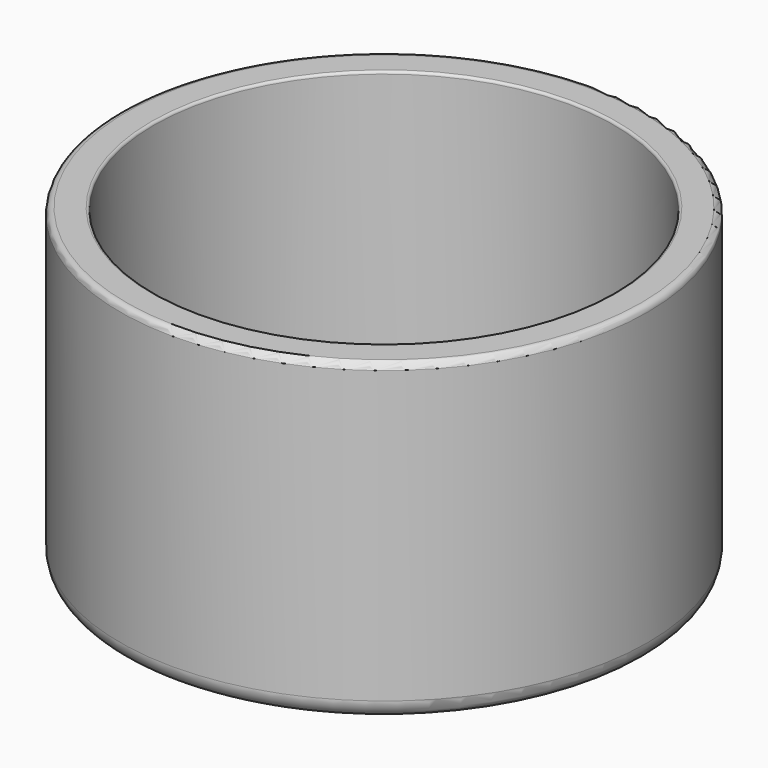
from build123d import *

# Parameters (mm, degrees)
F0_R     = 210.5
F1_DEPTH = 252
F2_R     = 183.5
F3_DEPTH = 231.775
F4_R     = 15
F5_R     = 5
F6_R     = 2


with BuildPart() as f1:
    # F0 (on Top) → F1 (new body)
    with BuildSketch(Plane.XY):
        Circle(F0_R)
    extrude(amount=F1_DEPTH)

    # F2 (on face) → F3 (cut)
    with BuildSketch(Plane.XY.offset(252)):
        Circle(F2_R)
    extrude(amount=-F3_DEPTH, mode=Mode.SUBTRACT)

    # F4
    f4_edges = [f1.edges().sort_by_distance(p)[0] for p in [
        (-210.5, 0, 0),
    ]]
    fillet(f4_edges, radius=F4_R)

    # F5
    f5_edges = [f1.edges().sort_by_distance(p)[0] for p in [
        (-210.5, 0, 252),
    ]]
    fillet(f5_edges, radius=F5_R)

    # F6
    f6_edges = [f1.edges().sort_by_distance(p)[0] for p in [
        (-183.5, 0, 252),
        (-183.5, 0, 20.225),
    ]]
    fillet(f6_edges, radius=F6_R)


solid = f1.part
